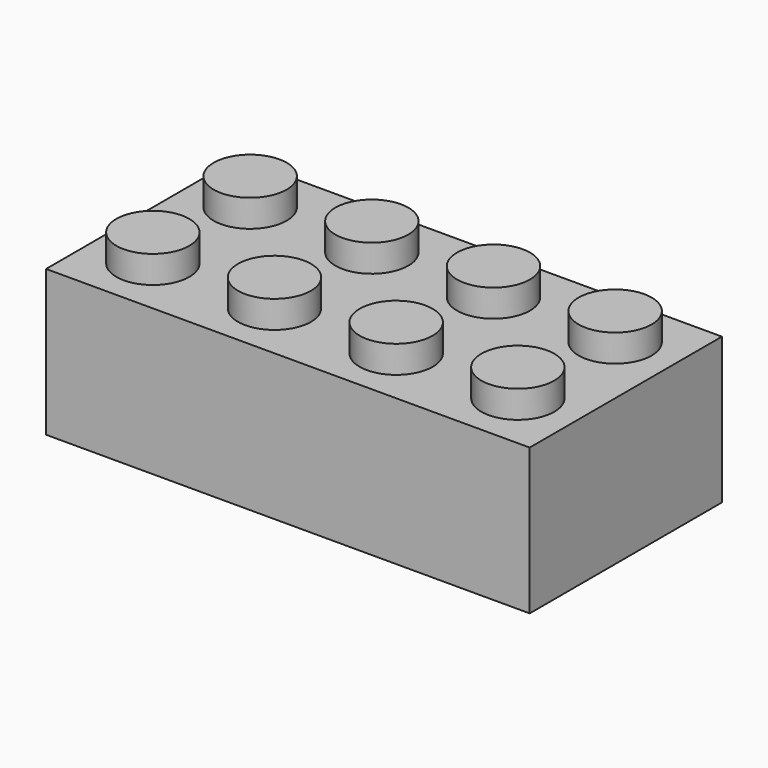
from build123d import *

# Parameters (mm, degrees)
F0_W     = 807.72
F0_H     = 401.32
F1_DEPTH = 243.84
F2_R     = 60.96
F3_DEPTH = 45.72


with BuildPart() as f1:
    # F0 (on Top) → F1 (new body)
    with BuildSketch(Plane.XY):
        with Locations((363.571708, 147.361966)):
            Rectangle(F0_W, F0_H)
    extrude(amount=F1_DEPTH)

    # F2 (on face) → F3 (join)
    with BuildSketch(Plane.XY.offset(243.84)):
        with Locations((58.771708, 45.761966)):
            Circle(F2_R)
        with Locations((58.771708, 248.961966)):
            Circle(F2_R)
        with Locations((261.971708, 45.761966)):
            Circle(F2_R)
        with Locations((261.971708, 248.961966)):
            Circle(F2_R)
        with Locations((465.171708, 45.761966)):
            Circle(F2_R)
        with Locations((465.171708, 248.961966)):
            Circle(F2_R)
        with Locations((668.371708, 45.761966)):
            Circle(F2_R)
        with Locations((668.371708, 248.961966)):
            Circle(F2_R)
    extrude(amount=F3_DEPTH)


solid = f1.part
